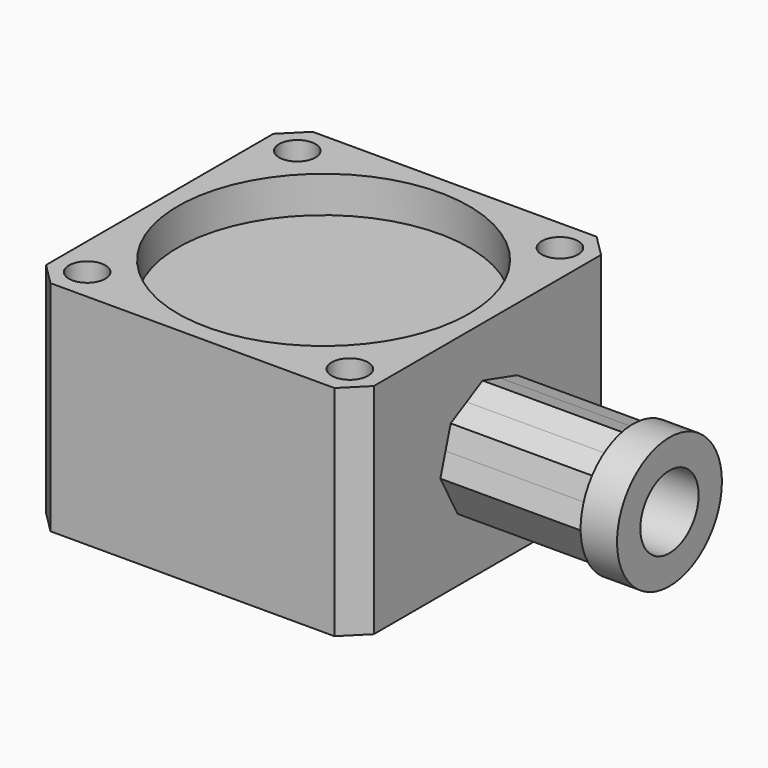
from build123d import *

# Parameters (mm, degrees)
F0_W      = 45
F0_H      = 45
F1_DEPTH  = 30
F2_SIZE   = 3
F4_D      = 5
F6_DEPTH  = 20
F7_R      = 9
F8_DEPTH  = 5
F10_D     = 10
F10_DEPTH = 30
F10_TIP   = 3.0043030951
F11_R     = 20
F12_DEPTH = 5


with BuildPart() as f1:
    # F0 (on Top) → F1 (new body)
    with BuildSketch(Plane.XY):
        with Locations((-22.5, -22.5)):
            Rectangle(F0_W, F0_H)
    extrude(amount=F1_DEPTH)

    # F2
    f2_edges = [f1.edges().sort_by_distance(p)[0] for p in [
        (-45, -45, 15),
        (0, -45, 15),
        (0, 0, 15),
        (-45, 0, 15),
    ]]
    chamfer(f2_edges, length=F2_SIZE)

    # F4 (through all)
    with Locations(Plane.XY.offset(30)):
        with Locations((-40.5312229203, -40.5312229203), (-40.5312229203, -4.4687770797), (-4.4687770797, -4.4687770797), (-4.4687770797, -40.5312229203)):
            Hole(F4_D / 2)

    # F5 (on face) → F6 (join)
    with BuildSketch(Plane.YZ):
        with BuildLine():
            ThreePointArc((-15.3121332332, 12.8588387864), (-15.0784435342, 13.9181036905), (-15, 15))
            ThreePointArc((-15, 15), (-15.2293520832, 16.8405648237), (-15.903381032, 18.5685596803))
            ThreePointArc((-15.903381032, 18.5685596803), (-17.7711474831, 20.8213360901), (-20.3588389028, 22.1878668015))
            ThreePointArc((-20.3588389028, 22.1878668015), (-23.2725024385, 22.4601099176), (-26.0685594955, 21.5966190679))
            ThreePointArc((-26.0685594955, 21.5966190679), (-28.3213359619, 19.7288526747), (-29.6878667454, 17.1411612856))
            ThreePointArc((-29.6878667454, 17.1411612856), (-29.9601099219, 14.2274976035), (-29.0966190145, 11.4314404058))
            ThreePointArc((-29.0966190145, 11.4314404058), (-27.2288526423, 9.1786640118), (-24.6411613131, 7.8121332628))
            ThreePointArc((-24.6411613131, 7.8121332628), (-21.7274976178, 7.5398900766), (-18.9314404058, 8.4033809855))
            ThreePointArc((-18.9314404058, 8.4033809855), (-16.6786639791, 10.271147398), (-15.3121332332, 12.8588387864))
        make_face()
        with BuildLine():
            ThreePointArc((-15.903381032, 18.5685596803), (-15.2293520832, 16.8405648237), (-15, 15))
            ThreePointArc((-15, 15), (-15.0784435342, 13.9181036905), (-15.3121332332, 12.8588387864))
            Line((-15.3121332332, 12.8588387864), (-14.4252352272, 15.8361507619))
            Line((-14.4252352272, 15.8361507619), (-15.903381032, 18.5685596803))
        make_face()
        with BuildLine():
            ThreePointArc((-20.3588389028, 22.1878668015), (-17.7711474831, 20.8213360901), (-15.903381032, 18.5685596803))
            Line((-15.903381032, 18.5685596803), (-17.3815269465, 21.3009688012))
            Line((-17.3815269465, 21.3009688012), (-20.3588389028, 22.1878668015))
        make_face()
        with BuildLine():
            Line((-16.1990311988, 9.8815269465), (-15.3121332332, 12.8588387864))
            ThreePointArc((-15.3121332332, 12.8588387864), (-16.6786639791, 10.271147398), (-18.9314404058, 8.4033809855))
            Line((-18.9314404058, 8.4033809855), (-16.1990311988, 9.8815269465))
        make_face()
        with BuildLine():
            ThreePointArc((-26.0685594955, 21.5966190679), (-23.2725024385, 22.4601099176), (-20.3588389028, 22.1878668015))
            Line((-20.3588389028, 22.1878668015), (-23.3361507619, 23.0747647728))
            Line((-23.3361507619, 23.0747647728), (-26.0685594955, 21.5966190679))
        make_face()
        with BuildLine():
            Line((-21.6638492381, 6.9252352272), (-18.9314404058, 8.4033809855))
            ThreePointArc((-18.9314404058, 8.4033809855), (-21.7274976178, 7.5398900766), (-24.6411613131, 7.8121332628))
            Line((-24.6411613131, 7.8121332628), (-21.6638492381, 6.9252352272))
        make_face()
        with BuildLine():
            ThreePointArc((-29.6878667454, 17.1411612856), (-28.3213359619, 19.7288526747), (-26.0685594955, 21.5966190679))
            Line((-26.0685594955, 21.5966190679), (-28.8009688012, 20.1184730535))
            Line((-28.8009688012, 20.1184730535), (-29.6878667454, 17.1411612856))
        make_face()
        with BuildLine():
            Line((-27.6184730535, 8.6990311988), (-24.6411613131, 7.8121332628))
            ThreePointArc((-24.6411613131, 7.8121332628), (-27.2288526423, 9.1786640118), (-29.0966190145, 11.4314404058))
            Line((-29.0966190145, 11.4314404058), (-27.6184730535, 8.6990311988))
        make_face()
        with BuildLine():
            ThreePointArc((-29.0966190145, 11.4314404058), (-29.9601099219, 14.2274976035), (-29.6878667454, 17.1411612856))
            Line((-29.6878667454, 17.1411612856), (-30.5747647728, 14.1638492381))
            Line((-30.5747647728, 14.1638492381), (-29.0966190145, 11.4314404058))
        make_face()
    extrude(amount=F6_DEPTH)

    # F7 (on face) → F8 (join)
    with BuildSketch(Plane.YZ.offset(20)):
        with Locations((-22.5, 15)):
            Circle(F7_R)
        Polygon((-29.687866787, 17.1411611458), (-22.5, 15), (-24.6411611458, 7.812133213), align=None, mode=Mode.SUBTRACT)
        Polygon((-24.6411611458, 7.812133213), (-22.5, 15), (-29.687866787, 17.1411611458), align=None)
    extrude(amount=F8_DEPTH)

    # F10
    with Locations(Plane.YZ.offset(25)):
        with Locations((-22.5, 15)):
            Hole(F10_D / 2, depth=F10_DEPTH)
            with Locations((0, 0, -(F10_DEPTH + F10_TIP / 2))):  # 118° drill point
                Cone(0, F10_D / 2, F10_TIP, mode=Mode.SUBTRACT)

    # F11 (on face) → F12 (cut)
    with BuildSketch(Plane.XY.offset(30)):
        with Locations((-22.5, -22.5)):
            Circle(F11_R)
    extrude(amount=-F12_DEPTH, mode=Mode.SUBTRACT)


solid = f1.part
